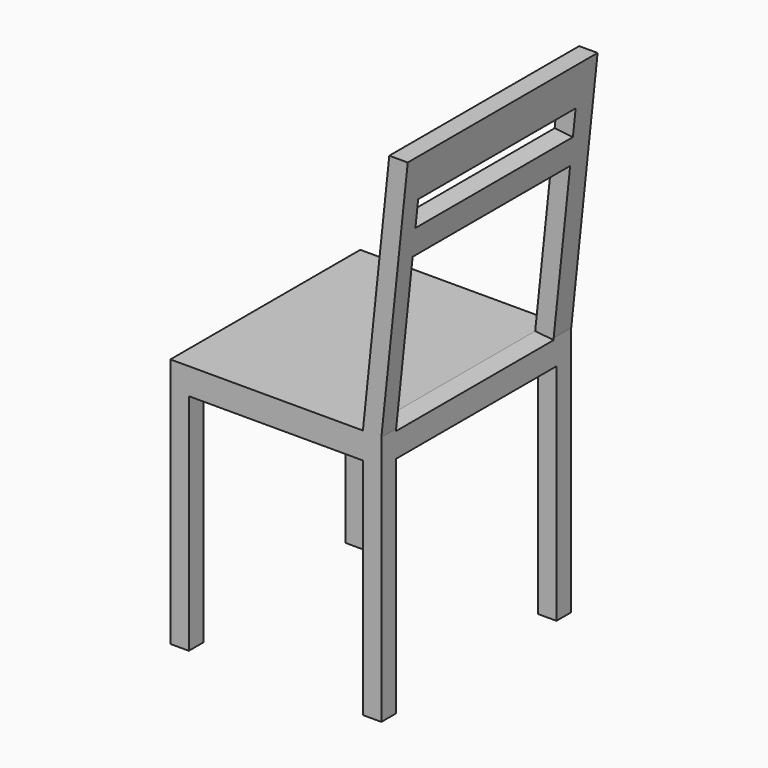
from build123d import *

# Parameters (mm, degrees)
F0_W     = 450
F0_H     = 450
F1_DEPTH = 950
F2_W     = 50
F2_H     = 50
F2_W_2   = 330
F2_H_2   = 425
F3_DEPTH = 450.001
F4_W     = 380
F4_H     = 425
F5_DEPTH = 450.001
F6_W     = 373.3073347807
F6_H     = 50
F6_H_2   = 302.6243293636
F7_DEPTH = 134.2592361444


with BuildPart() as f1:
    # F0 (on Top) → F1 (new body)
    with BuildSketch(Plane.XY):
        Rectangle(F0_W, F0_H)
    extrude(amount=F1_DEPTH)

    # F2 (on face) → F3 (cut, through all)
    with BuildSketch(Plane.XZ.offset(225)):
        with Locations((200, 450)):
            Rectangle(F2_W, F2_H)
        Polygon((-225, 475), (140, 475), (190, 950), (-225, 950), align=None)
        Polygon((175, 475), (225, 475), (225, 950), align=None)
        with Locations((-25, 212.5)):
            Rectangle(F2_W_2, F2_H_2)
        with Locations((200, 212.5)):
            Rectangle(F2_W, F2_H_2)
    extrude(amount=-F3_DEPTH, mode=Mode.SUBTRACT)

    # F4 (on face) → F5 (cut, through all)
    with BuildSketch(Plane(origin=(-225, 0, 0), x_dir=(0, -1, 0), z_dir=(-1, 0, 0))):
        with Locations((0, 212.5)):
            Rectangle(F4_W, F4_H)
    extrude(amount=-F5_DEPTH, mode=Mode.SUBTRACT)

    # F6 (on face) → F7 (cut, through all)
    with BuildSketch(Plane(origin=(89.0136986301, 0, -9.3698630137), x_dir=(0, -1, 0), z_dir=(-0.9945054529, 0, 0.1046847845))):
        with Locations((3.3463326097, 864.6702893338)):
            Rectangle(F6_W, F6_H)
        with Locations((3.3463326097, 638.358124652)):
            Rectangle(F6_W, F6_H_2)
    extrude(amount=-F7_DEPTH, mode=Mode.SUBTRACT)


solid = f1.part
